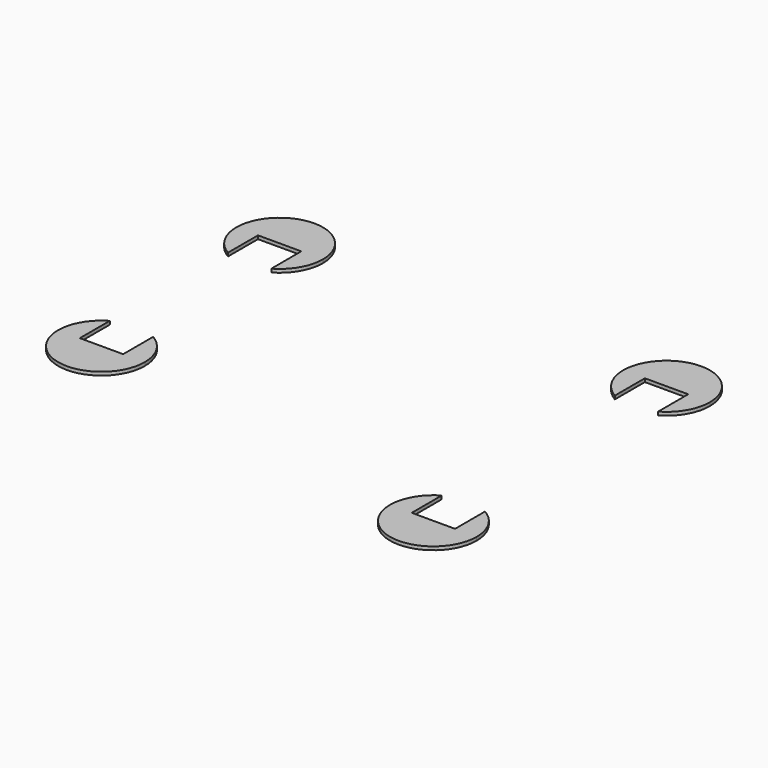
from build123d import *

# Parameters (mm, degrees)
F1_DEPTH = 3.9878


with BuildPart() as f1:
    # F0 (on Top) → F1 (new body)
    with BuildSketch(Plane.XY):
        with BuildLine():
            Line((-138.716606, 29.854476), (-138.716606, -14.139614))
            ThreePointArc((-138.716606, -14.139614), (-120.122515, 4.454476), (-113.316606, 29.854476))
            Line((-113.316606, 29.854476), (-138.716606, 29.854476))
        make_face()
        with BuildLine():
            Line((-138.716606, 29.854476), (-113.316606, 29.854476))
            ThreePointArc((-113.316606, 29.854476), (-164.116606, 80.654476), (-214.916606, 29.854476))
            Line((-214.916606, 29.854476), (-189.516606, 29.854476))
            Line((-189.516606, 29.854476), (-164.116606, 29.854476))
            Line((-164.116606, 29.854476), (-138.716606, 29.854476))
        make_face()
        with BuildLine():
            Line((-189.516606, 29.854476), (-214.916606, 29.854476))
            ThreePointArc((-214.916606, 29.854476), (-208.110696, 4.454476), (-189.516606, -14.139614))
            Line((-189.516606, -14.139614), (-189.516606, 29.854476))
        make_face()
        with BuildLine():
            ThreePointArc((238.827239, 29.854476), (245.633148, 4.454476), (264.227239, -14.139614))
            Line((264.227239, -14.139614), (264.227239, 29.854476))
            Line((264.227239, 29.854476), (238.827239, 29.854476))
        make_face()
        with BuildLine():
            ThreePointArc((340.427239, 29.854476), (289.627239, 80.654476), (238.827239, 29.854476))
            Line((238.827239, 29.854476), (264.227239, 29.854476))
            Line((264.227239, 29.854476), (289.627239, 29.854476))
            Line((289.627239, 29.854476), (315.027239, 29.854476))
            Line((315.027239, 29.854476), (340.427239, 29.854476))
        make_face()
        with BuildLine():
            ThreePointArc((315.027239, -14.139614), (333.621329, 4.454476), (340.427239, 29.854476))
            Line((340.427239, 29.854476), (315.027239, 29.854476))
            Line((315.027239, 29.854476), (315.027239, -14.139614))
        make_face()
        with BuildLine():
            Line((-138.716606, -231.282681), (-164.116606, -231.282681))
            Line((-164.116606, -231.282681), (-189.516606, -231.282681))
            Line((-189.516606, -231.282681), (-214.916606, -231.282681))
            ThreePointArc((-214.916606, -231.282681), (-164.116606, -282.082681), (-113.316606, -231.282681))
            Line((-113.316606, -231.282681), (-138.716606, -231.282681))
        make_face()
        with BuildLine():
            Line((-214.916606, -231.282681), (-189.516606, -231.282681))
            Line((-189.516606, -231.282681), (-189.516606, -187.288591))
            ThreePointArc((-189.516606, -187.288591), (-208.110696, -205.882681), (-214.916606, -231.282681))
        make_face()
        with BuildLine():
            Line((-138.716606, -187.288591), (-138.716606, -231.282681))
            Line((-138.716606, -231.282681), (-113.316606, -231.282681))
            ThreePointArc((-113.316606, -231.282681), (-120.122515, -205.882681), (-138.716606, -187.288591))
        make_face()
        with BuildLine():
            Line((315.027239, -311.892636), (289.627239, -311.892636))
            Line((289.627239, -311.892636), (264.227239, -311.892636))
            Line((264.227239, -311.892636), (238.827239, -311.892636))
            ThreePointArc((238.827239, -311.892636), (289.627239, -362.692636), (340.427239, -311.892636))
            Line((340.427239, -311.892636), (315.027239, -311.892636))
        make_face()
        with BuildLine():
            Line((238.827239, -311.892636), (264.227239, -311.892636))
            Line((264.227239, -311.892636), (264.227239, -267.898546))
            ThreePointArc((264.227239, -267.898546), (245.633148, -286.492636), (238.827239, -311.892636))
        make_face()
        with BuildLine():
            Line((315.027239, -267.898546), (315.027239, -311.892636))
            Line((315.027239, -311.892636), (340.427239, -311.892636))
            ThreePointArc((340.427239, -311.892636), (333.621329, -286.492636), (315.027239, -267.898546))
        make_face()
    extrude(amount=F1_DEPTH)


solid = f1.part
